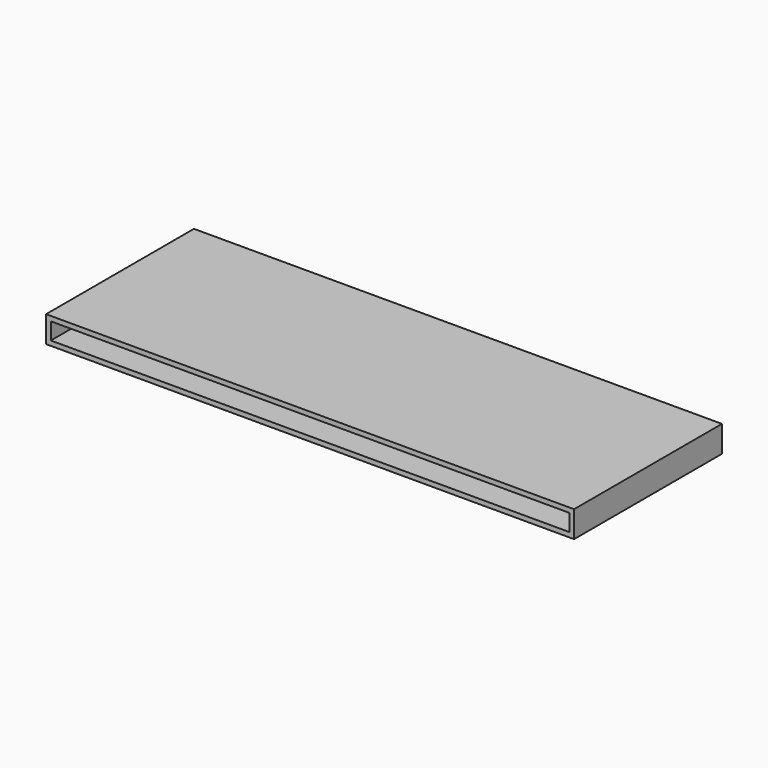
from build123d import *

# Parameters (mm, degrees)
F0_W     = 2000
F0_H     = 100
F0_W_2   = 1964
F0_H_2   = 64
F1_DEPTH = 350


with BuildPart() as f1:
    # F0 (on Front) → F1 (new body, symmetric)
    with BuildSketch(Plane.XZ):
        with Locations((0, 50)):
            Rectangle(F0_W, F0_H)
        with Locations((0, 50)):
            Rectangle(F0_W_2, F0_H_2, mode=Mode.SUBTRACT)
    extrude(amount=F1_DEPTH, both=True)


solid = f1.part
